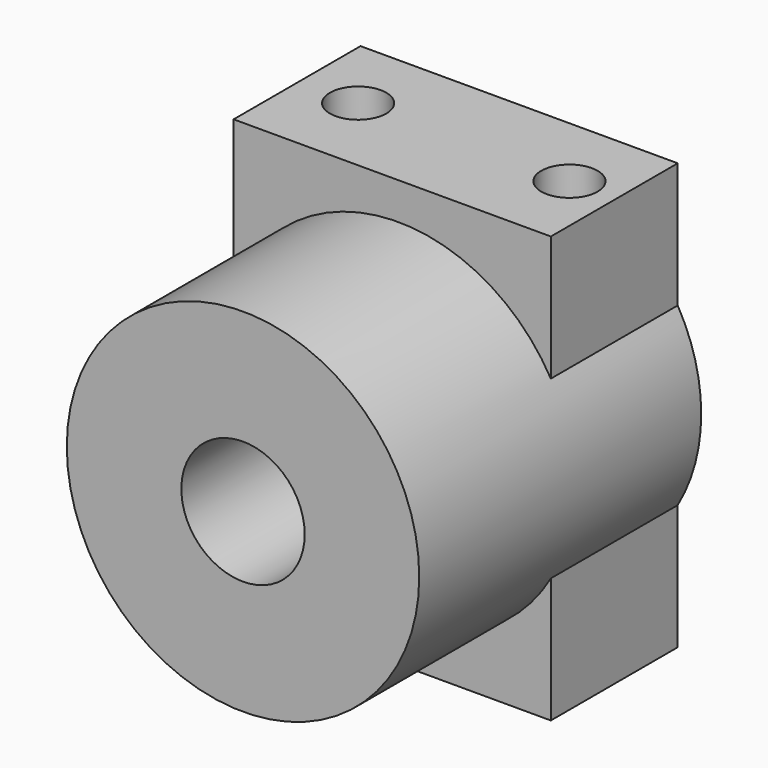
from build123d import *

# Parameters (mm, degrees)
F0_R     = 10
F0_R_2   = 3.5
F1_DEPTH = 20
F2_W     = 18
F2_H     = 8.5
F3_DEPTH = 9
F4_R     = 1.6
F5_DEPTH = 4
F6_R     = 1.6
F7_DEPTH = 4


with BuildPart() as f1:
    # F0 (on Front) → F1 (new body)
    with BuildSketch(Plane.XZ):
        Circle(F0_R)
        Circle(F0_R_2, mode=Mode.SUBTRACT)
    extrude(amount=F1_DEPTH)

    # F2 (on Front) → F3 (join)
    with BuildSketch(Plane.XZ):
        with Locations((-0.332717, 7.839034)):
            Rectangle(F2_W, F2_H)
        with Locations((-0.332717, -7.839034)):
            Rectangle(F2_W, F2_H)
    extrude(amount=F3_DEPTH)

    # F4 (on face) → F5 (cut)
    with BuildSketch(Plane.XY.offset(12.089034)):
        with Locations((-5.996018, -4.33991)):
            Circle(F4_R)
        with Locations((5.996018, -4.33991)):
            Circle(F4_R)
    extrude(amount=-F5_DEPTH, mode=Mode.SUBTRACT)

    # F6 (on face) → F7 (cut)
    with BuildSketch(Plane(origin=(0, 0, -12.089034), x_dir=(1, 0, 0), z_dir=(0, 0, -1))):
        with Locations((5.982172, 4.523708)):
            Circle(F6_R)
        with Locations((-5.982172, 4.523708)):
            Circle(F6_R)
    extrude(amount=-F7_DEPTH, mode=Mode.SUBTRACT)


solid = f1.part
